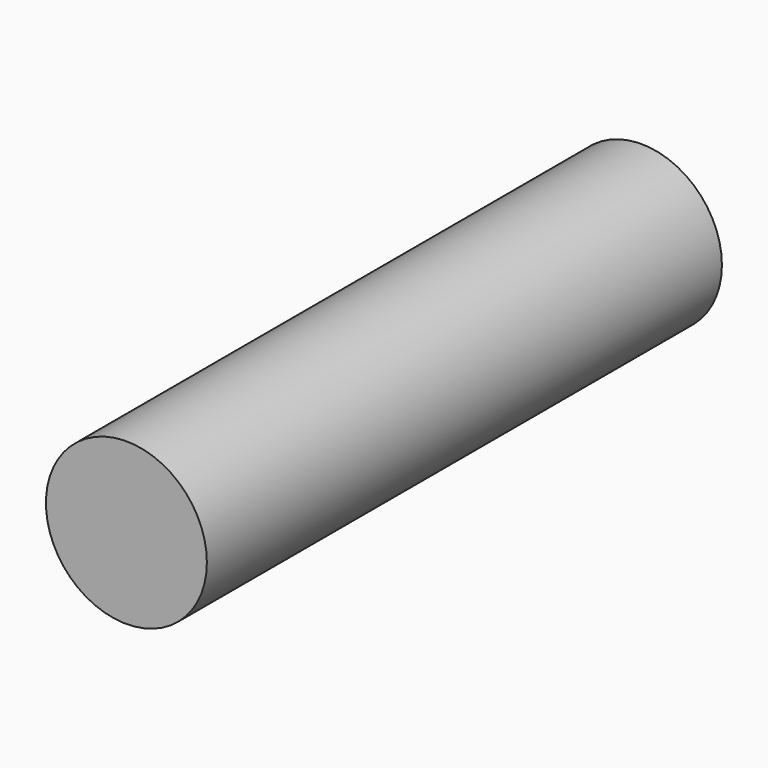
from build123d import *

# Parameters (mm, degrees)
F0_R     = 0.79375
F1_DEPTH = 3.175


with BuildPart() as f1:
    # F0 (on Front) → F1 (new body, symmetric)
    with BuildSketch(Plane.XZ):
        Circle(F0_R)
    extrude(amount=F1_DEPTH, both=True)


with BuildPart() as f2_1:
    # F2: copy of F1
    add(f1.part)


solid = Compound([f1.part, f2_1.part])
